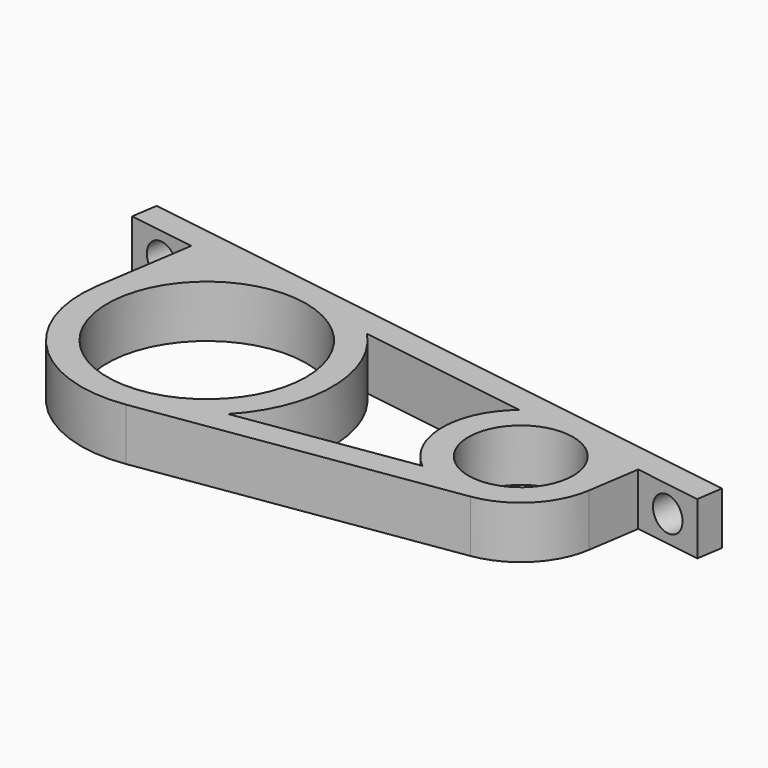
from build123d import *

# Parameters (mm, degrees)
F0_R     = 12.065
F0_R_2   = 6.35
F1_DEPTH = 6.35
F2_R     = 2.06375
F3_DEPTH = 14.883615
F4_R     = 2.06375
F5_DEPTH = 14.883615


with BuildPart() as f1:
    # F0 (on Top) → F1 (new body)
    with BuildSketch(Plane.XY):
        with BuildLine():
            Line((-35.814, 15.067575), (-50.881575, 17.353575))
            Line((-50.881575, 17.353575), (-51.357825, 14.214497))
            Line((-51.357825, 14.214497), (-53.167575, 2.286))
            ThreePointArc((-53.167575, 2.286), (-47.137938, 12.27083), (-35.814, 15.067575))
        make_face()
        Polygon((-51.357825, 14.214497), (-50.881575, 17.353575), (-59.043177, 18.591825), (-59.519427, 15.452747), align=None)
        with BuildLine():
            Line((10.845984, 7.988484), (-35.814, 15.067575))
            ThreePointArc((-35.814, 15.067575), (-47.137938, 12.27083), (-53.167575, 2.286))
            ThreePointArc((-53.167575, 2.286), (-48.876307, -10.776307), (-35.814, -15.067575))
            Line((-35.814, -15.067575), (1.42875, -9.417234))
            ThreePointArc((1.42875, -9.417234), (6.735192, -6.735192), (9.417234, -1.42875))
            Line((9.417234, -1.42875), (10.369734, 4.849406))
            Line((10.369734, 4.849406), (10.845984, 7.988484))
        make_face()
        with Locations((-38.1, 0)):
            Circle(F0_R, mode=Mode.SUBTRACT)
        with BuildLine():
            Line((-27.084666, 10.531857), (-6.066692, 7.343083))
            ThreePointArc((-6.066692, 7.343083), (-9.525, 0), (-6.066692, -7.343083))
            Line((-6.066692, -7.343083), (-27.084666, -10.531857))
            ThreePointArc((-27.084666, -10.531857), (-22.86, 0), (-27.084666, 10.531857))
        make_face(mode=Mode.SUBTRACT)
        Circle(F0_R_2, mode=Mode.SUBTRACT)
        Polygon((19.007587, 6.750234), (10.845984, 7.988484), (10.369734, 4.849406), (18.531337, 3.611156), align=None)
    extrude(amount=F1_DEPTH)

    # F2 (on face) → F3 (cut, through all)
    with BuildSketch(Plane(origin=(0.9525, 6.278156, 0), x_dir=(0.988686, -0.15, 0), z_dir=(-0.15, -0.988686, 0))):
        with Locations((-57.036436, 3.175)):
            Circle(F2_R)
    extrude(amount=-F3_DEPTH, mode=Mode.SUBTRACT)

    # F4 (on face) → F5 (cut, through all)
    with BuildSketch(Plane(origin=(0.9525, 6.278156, 0), x_dir=(0.988686, -0.15, 0), z_dir=(-0.15, -0.988686, 0))):
        with Locations((13.6525, 3.175)):
            Circle(F4_R)
    extrude(amount=-F5_DEPTH, mode=Mode.SUBTRACT)


solid = f1.part
